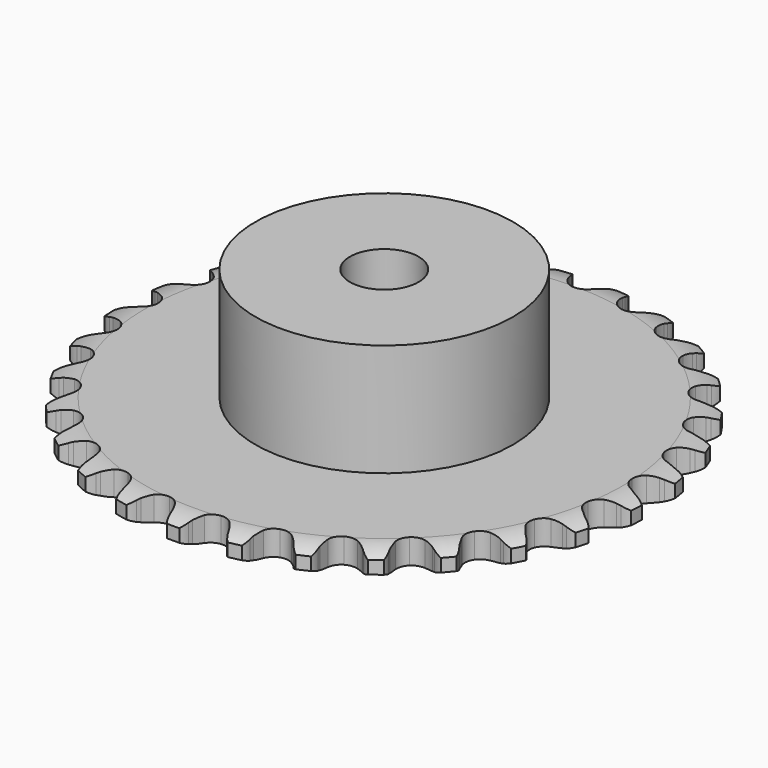
from build123d import *

# Parameters (mm, degrees)
PAD_DEPTH         = 2.9
SKETCH001_R       = 15
PAD001_DEPTH      = 16
SKETCH002_R       = 4
POCKET_DEPTH      = 0.0010001
POCKET_DEPTH_BACK = 16.001


with BuildPart() as part:
    # Sprocket → Pad (new body)
    with BuildSketch(Plane.XY):
        with BuildLine():
            ThreePointArc((-3.3987973529, 31.2514255723), (-2.6170001684, 30.6580939865), (-2.1027136668, 29.8221761659))
            Line((-2.1027136668, 29.8221761659), (-1.9418476522, 29.4031058704))
            ThreePointArc((-1.9418476522, 29.4031058704), (-1.6849074041, 28.8525283486), (-1.3535355475, 28.3432675202))
            ThreePointArc((-1.3535355475, 28.3432675202), (-0.7559938603, 27.8472092276), (0, 27.6694363925))
            ThreePointArc((0, 27.6694363925), (0.7559938603, 27.8472092276), (1.3535355475, 28.3432675202))
            ThreePointArc((1.3535355475, 28.3432675202), (1.6849074041, 28.8525283486), (1.9418476522, 29.4031058704))
            Line((1.9418476522, 29.4031058704), (2.1027136668, 29.8221761659))
            ThreePointArc((2.1027136668, 29.8221761659), (2.6170001684, 30.6580939865), (3.3987973529, 31.2514255723))
            ThreePointArc((3.3987973529, 31.2514255723), (4.0347678016, 30.5039024643), (4.3573329487, 29.5769715422))
            Line((4.3573329487, 29.5769715422), (4.4243502794, 29.1331174394))
            ThreePointArc((4.4243502794, 29.1331174394), (4.556925515, 28.5401775558), (4.7710740572, 27.9715878087))
            ThreePointArc((4.7710740572, 27.9715878087), (5.2480076824, 27.3586732838), (5.9481109217, 27.0225403458))
            ThreePointArc((5.9481109217, 27.0225403458), (6.7246459703, 27.0336406179), (7.4148553344, 27.3896475438))
            Line((7.4148553344, 27.3896475438), (8.2172469457, 28.2982377501))
            ThreePointArc((8.2172469457, 28.2982377501), (8.3359917312, 28.4887840842), (8.4644397282, 28.672928977))
            ThreePointArc((8.4644397282, 28.672928977), (9.1464001191, 29.3787471078), (10.0374680721, 29.790143646))
            ThreePointArc((10.0374680721, 29.790143646), (10.4978745134, 28.9233823656), (10.6136355183, 27.9487806016))
            Line((10.6136355183, 27.9487806016), (10.5836705092, 27.500896816))
            ThreePointArc((10.5836705092, 27.500896816), (10.5856816616, 26.8933197806), (10.6725935418, 26.2919877395))
            ThreePointArc((10.6725935418, 26.2919877395), (11.0066182185, 25.5908761842), (11.6180947875, 25.1121003459))
            ThreePointArc((11.6180947875, 25.1121003459), (12.3788611086, 24.9560090186), (13.1294647269, 25.1553180895))
            Line((13.1294647269, 25.1553180895), (14.1084169049, 25.8701754839))
            ThreePointArc((14.1084169049, 25.8701754839), (14.2653473325, 26.0307403318), (14.4303779954, 26.1829674969))
            ThreePointArc((14.4303779954, 26.1829674969), (15.2481245656, 26.7256826666), (16.20679794, 26.9359077122))
            ThreePointArc((16.20679794, 26.9359077122), (16.4701122806, 25.9904370535), (16.3736562873, 25.013735743))
            Line((16.3736562873, 25.013735743), (16.2481100688, 24.5827648226))
            ThreePointArc((16.2481100688, 24.5827648226), (16.1194630989, 23.9889602623), (16.075074414, 23.383003545))
            ThreePointArc((16.075074414, 23.383003545), (16.2505715197, 22.6264781564), (16.7448294537, 22.027446444))
            ThreePointArc((16.7448294537, 22.027446444), (17.4542544595, 21.7114621742), (18.2301549412, 21.7447539196))
            Line((18.2301549412, 21.7447539196), (19.3398929699, 22.2324525647))
            ThreePointArc((19.3398929699, 22.2324525647), (19.5276711474, 22.3555280925), (19.7215678258, 22.4687195569))
            ThreePointArc((19.7215678258, 22.4687195569), (20.6368636546, 22.8229550073), (21.6183159488, 22.8221786709))
            ThreePointArc((21.6183159488, 22.8221786709), (21.6722259027, 21.842207791), (21.3680630863, 20.9090764017))
            Line((21.3680630863, 20.9090764017), (21.1528060602, 20.5151700678))
            ThreePointArc((21.1528060602, 20.5151700678), (20.8995163572, 19.962903624), (20.7259026728, 19.3806560931))
            ThreePointArc((20.7259026728, 19.3806560931), (20.7346661579, 18.6040911576), (21.0885945051, 17.9128136281))
            ThreePointArc((21.0885945051, 17.9128136281), (21.713506271, 17.4517114892), (22.4784233717, 17.3174292239))
            Line((22.4784233717, 17.3174292239), (23.6670571345, 17.5551648732))
            ThreePointArc((23.6670571345, 17.5551648732), (23.8769027629, 17.634996206), (24.0905990636, 17.7038592625))
            ThreePointArc((24.0905990636, 17.7038592625), (25.0606459353, 17.8530513378), (26.0189855309, 17.6413099199))
            ThreePointArc((26.0189855309, 17.6413099199), (25.8609703286, 16.6726611681), (25.3633230043, 15.8267318867))
            Line((25.3633230043, 15.8267318867), (25.0684203498, 15.4883087617))
            ThreePointArc((25.0684203498, 15.4883087617), (24.7023314588, 15.0034037993), (24.4076107578, 14.4720907023))
            ThreePointArc((24.4076107578, 14.4720907023), (24.2492308515, 13.7117975332), (24.4462803158, 12.9605975556))
            ThreePointArc((24.4462803158, 12.9605975556), (24.9574586621, 12.375938171), (25.6756257083, 12.0803607847))
            Line((25.6756257083, 12.0803607847), (26.8875760114, 12.0570171833))
            ThreePointArc((26.8875760114, 12.0570171833), (27.1096769425, 12.0898714969), (27.333180664, 12.1111861855))
            ThreePointArc((27.333180664, 12.1111861855), (28.312620265, 12.0483588299), (29.2030362676, 11.635553124))
            ThreePointArc((29.2030362676, 11.635553124), (28.8404845243, 10.7235194394), (28.1726221279, 10.0043469789))
            Line((28.1726221279, 10.0043469789), (27.8118631654, 9.7372313518))
            ThreePointArc((27.8118631654, 9.7372313518), (27.350092996, 9.3423614881), (26.9480460909, 8.8868264349))
            ThreePointArc((26.9480460909, 8.8868264349), (26.6299284615, 8.1783554958), (26.660885229, 7.4023583461))
            ThreePointArc((26.660885229, 7.4023583461), (27.0344280243, 6.7214797389), (27.6722643233, 6.2784281015))
            Line((27.6722643233, 6.2784281015), (28.8508617175, 5.9950967704))
            ThreePointArc((28.8508617175, 5.9950967704), (29.0748327585, 5.9794378334), (29.2976931152, 5.9522075031))
            ThreePointArc((29.2976931152, 5.9522075031), (30.2407279383, 5.680298454), (31.0215854853, 5.085730796))
            ThreePointArc((31.0215854853, 5.085730796), (30.4714497176, 4.2729578599), (29.6646007524, 3.7141699253))
            Line((29.6646007524, 3.7141699253), (29.2548541701, 3.5308518261))
            ThreePointArc((29.2548541701, 3.5308518261), (28.7189945822, 3.244480737), (28.2284207394, 2.8860240403))
            ThreePointArc((28.2284207394, 2.8860240403), (27.7654402137, 2.2625026449), (27.6288567803, 1.4979930875))
            ThreePointArc((27.6288567803, 1.4979930875), (27.8472975787, 0.7527323846), (28.3749786139, 0.1829230982))
            Line((28.3749786139, 0.1829230982), (29.4651131951, -0.3471477045))
            ThreePointArc((29.4651131951, -0.3471477045), (29.680481709, -0.4105876974), (29.8922779984, -0.4850897868))
            ThreePointArc((29.8922779984, -0.4850897868), (30.7548127834, -0.9533663645), (31.3895998437, -1.7018946516))
            ThreePointArc((31.3895998437, -1.7018946516), (30.6776037886, -2.37740248), (29.7694956156, -2.749677586))
            Line((29.7694956156, -2.749677586), (29.3299207082, -2.8406264067))
            ThreePointArc((29.3299207082, -2.8406264067), (28.7450279006, -3.0051083274), (28.1888658077, -3.2497256307))
            ThreePointArc((28.1888658077, -3.2497256307), (27.6026708406, -3.759142315), (27.3049336959, -4.4764166631))
            ThreePointArc((27.3049336959, -4.4764166631), (27.3580584484, -5.2512118995), (27.7509104412, -5.9211351858))
            Line((27.7509104412, -5.9211351858), (28.7016087278, -6.6731599385))
            ThreePointArc((28.7016087278, -6.6731599385), (28.8983043224, -6.7814146039), (29.0891331852, -6.8997048173))
            ThreePointArc((29.0891331852, -6.8997048173), (29.8308367642, -7.5424528313), (30.2898714004, -8.4099413968))
            ThreePointArc((30.2898714004, -8.4099413968), (29.4493072022, -8.9165981222), (28.4824019502, -9.0849532294))
            Line((28.4824019502, -9.0849532294), (28.0335527518, -9.0792801058))
            ThreePointArc((28.0335527518, -9.0792801058), (27.4269756622, -9.1141818664), (26.8312308406, -9.2335217431))
            ThreePointArc((26.8312308406, -9.2335217431), (26.1492312572, -9.6050139583), (25.704262259, -10.2415141456))
            ThreePointArc((25.704262259, -10.2415141456), (25.5895869114, -11.0096153514), (25.8292405391, -11.7483277693))
            Line((25.8292405391, -11.7483277693), (26.596048936, -12.6871426304))
            ThreePointArc((26.596048936, -12.6871426304), (26.7648743437, -12.8351501005), (26.9258128346, -12.9916973191))
            ThreePointArc((26.9258128346, -12.9916973191), (27.5120039725, -13.7788625866), (27.7738222352, -14.7247486293))
            ThreePointArc((27.7738222352, -14.7247486293), (26.8439937416, -15.0388635463), (25.8635028255, -14.995426557))
            Line((25.8635028255, -14.995426557), (25.4263670259, -14.8933967582))
            ThreePointArc((25.4263670259, -14.8933967582), (24.8264685246, -14.7970863909), (24.2189973401, -14.7855686412))
            ThreePointArc((24.2189973401, -14.7855686412), (23.4730826829, -15.0017658241), (22.9016880872, -15.5277298093))
            ThreePointArc((22.9016880872, -15.5277298093), (22.6245747312, -16.2532214258), (22.6998240565, -17.0261816038))
            Line((22.6998240565, -17.0261816038), (23.2468874553, -18.1078886337))
            ThreePointArc((23.2468874553, -18.1078886337), (23.3799485878, -18.2887282436), (23.5034714017, -18.4762124935))
            ThreePointArc((23.5034714017, -18.4762124935), (23.9067404525, -19.3709880414), (23.9591000107, -20.3510429813))
            ThreePointArc((23.9591000107, -20.3510429813), (22.9834849686, -20.4579284255), (22.035255054, -20.204730405))
            Line((22.035255054, -20.204730405), (21.6302726372, -20.0111147309))
            ThreePointArc((21.6302726372, -20.0111147309), (21.0651033116, -19.7880956016), (20.4743104415, -19.6462587825))
            ThreePointArc((20.4743104415, -19.6462587825), (19.6993588509, -19.6970517932), (19.0282564339, -20.087886085))
            ThreePointArc((19.0282564339, -20.087886085), (18.6016625819, -20.7368449305), (18.5089890301, -21.5079101096))
            Line((18.5089890301, -21.5079101096), (18.8107273542, -22.68192989))
            ThreePointArc((18.8107273542, -22.68192989), (18.9018024209, -22.8871457806), (18.9821337682, -23.0968005065))
            ThreePointArc((18.9821337682, -23.0968005065), (19.1836243194, -24.0573476248), (19.0240768983, -25.0257451821))
            ThreePointArc((19.0240768983, -25.0257451821), (18.0482939827, -24.9204033089), (17.1766632465, -24.4692835152))
            Line((17.1766632465, -24.4692835152), (16.8227707403, -24.1931352195))
            ThreePointArc((16.8227707403, -24.1931352195), (16.3187572798, -23.8538354549), (15.7722675422, -23.5883116984))
            ThreePointArc((15.7722675422, -23.5883116984), (15.0045148932, -23.4713255122), (14.265084658, -23.7087551334))
            ThreePointArc((14.265084658, -23.7087551334), (13.7089573646, -24.2508366136), (13.452694248, -24.9839526431))
            Line((13.452694248, -24.9839526431), (13.4949985487, -26.1953893138))
            ThreePointArc((13.4949985487, -26.1953893138), (13.5398289806, -26.415385818), (13.5732126569, -26.6374077981))
            ThreePointArc((13.5732126569, -26.6374077981), (13.5635032341, -27.618812371), (13.1995090939, -28.5302713522))
            ThreePointArc((13.1995090939, -28.5302713522), (12.2691848295, -28.2176278306), (11.5149097561, -27.5896801239))
            Line((11.5149097561, -27.5896801239), (11.2286547807, -27.2439115941))
            ThreePointArc((11.2286547807, -27.2439115941), (10.8093642947, -26.8041964739), (10.3327309422, -26.4274013758))
            ThreePointArc((10.3327309422, -26.4274013758), (9.6080764955, -26.1481061367), (8.8348933781, -26.2210291422))
            ThreePointArc((8.8348933781, -26.2210291422), (8.1752365373, -26.6308861295), (7.7673664343, -27.2917733187))
            Line((7.7673664343, -27.2917733187), (7.5482586096, -28.4839814473))
            ThreePointArc((7.5482586096, -28.4839814473), (7.5447481856, -28.7084717732), (7.5296232074, -28.9324795064))
            ThreePointArc((7.5296232074, -28.9324795064), (7.3091678124, -29.8888521468), (6.7577469145, -30.700753743))
            ThreePointArc((6.7577469145, -30.700753743), (5.9163822298, -30.1954274365), (5.3147318835, -29.4200139538))
            Line((5.3147318835, -29.4200139538), (5.1094994034, -29.0207929419))
            ThreePointArc((5.1094994034, -29.0207929419), (4.7945374488, -28.5012230565), (4.4100473274, -28.0307751368))
            ThreePointArc((4.4100473274, -28.0307751368), (3.7623751194, -27.6022303798), (2.9915923031, -27.5072369708))
            ThreePointArc((2.9915923031, -27.5072369708), (2.2592507356, -27.7657050081), (1.7188451991, -28.3234610064))
            Line((1.7188451991, -28.3234610064), (1.2485704873, -29.4406942661))
            ThreePointArc((1.2485704873, -29.4406942661), (1.1968833508, -29.6591814955), (1.1339569452, -29.8747006291))
            ThreePointArc((1.1339569452, -29.8747006291), (0.7130638273, -30.7613224154), (0, -31.4357030103))
            ThreePointArc((0, -31.4357030103), (-0.7130638273, -30.7613224154), (-1.1339569452, -29.8747006291))
            Line((-1.1339569452, -29.8747006291), (-1.2485704873, -29.4406942661))
            ThreePointArc((-1.2485704873, -29.4406942661), (-1.4444766394, -28.8655641258), (-1.7188451991, -28.3234610064))
            ThreePointArc((-1.7188451991, -28.3234610064), (-2.2592507356, -27.7657050081), (-2.9915923031, -27.5072369708))
            ThreePointArc((-2.9915923031, -27.5072369708), (-3.7623751194, -27.6022303798), (-4.4100473274, -28.0307751368))
            Line((-4.4100473274, -28.0307751368), (-5.1094994034, -29.0207929419))
            ThreePointArc((-5.1094994034, -29.0207929419), (-5.2069464192, -29.2230608548), (-5.3147318835, -29.4200139538))
            ThreePointArc((-5.3147318835, -29.4200139538), (-5.9163822298, -30.1954274365), (-6.7577469145, -30.700753743))
            ThreePointArc((-6.7577469145, -30.700753743), (-7.3091678124, -29.8888521468), (-7.5296232074, -28.9324795064))
            Line((-7.5296232074, -28.9324795064), (-7.5482586096, -28.4839814473))
            ThreePointArc((-7.5482586096, -28.4839814473), (-7.6159486053, -27.8801834984), (-7.7673664343, -27.2917733187))
            ThreePointArc((-7.7673664343, -27.2917733187), (-8.1752365373, -26.6308861295), (-8.8348933781, -26.2210291422))
            ThreePointArc((-8.8348933781, -26.2210291422), (-9.6080764955, -26.1481061367), (-10.3327309422, -26.4274013758))
            Line((-10.3327309422, -26.4274013758), (-11.2286547807, -27.2439115941))
            ThreePointArc((-11.2286547807, -27.2439115941), (-11.3673051617, -27.4205023677), (-11.5149097561, -27.5896801239))
            ThreePointArc((-11.5149097561, -27.5896801239), (-12.2691848295, -28.2176278306), (-13.1995090939, -28.5302713522))
            ThreePointArc((-13.1995090939, -28.5302713522), (-13.5635032341, -27.618812371), (-13.5732126569, -26.6374077981))
            Line((-13.5732126569, -26.6374077981), (-13.4949985487, -26.1953893138))
            ThreePointArc((-13.4949985487, -26.1953893138), (-13.431307279, -25.5911564772), (-13.452694248, -24.9839526431))
            ThreePointArc((-13.452694248, -24.9839526431), (-13.7089573646, -24.2508366136), (-14.265084658, -23.7087551334))
            ThreePointArc((-14.265084658, -23.7087551334), (-15.0045148932, -23.4713255122), (-15.7722675422, -23.5883116984))
            Line((-15.7722675422, -23.5883116984), (-16.8227707403, -24.1931352195))
            ThreePointArc((-16.8227707403, -24.1931352195), (-16.9961413488, -24.3357916656), (-17.1766632465, -24.4692835152))
            ThreePointArc((-17.1766632465, -24.4692835152), (-18.0482939827, -24.9204033089), (-19.0240768983, -25.0257451821))
            ThreePointArc((-19.0240768983, -25.0257451821), (-19.1836243194, -24.0573476248), (-18.9821337682, -23.0968005065))
            Line((-18.9821337682, -23.0968005065), (-18.8107273542, -22.68192989))
            ThreePointArc((-18.8107273542, -22.68192989), (-18.6186329522, -22.1055154217), (-18.5089890301, -21.5079101096))
            ThreePointArc((-18.5089890301, -21.5079101096), (-18.6016625819, -20.7368449305), (-19.0282564339, -20.087886085))
            ThreePointArc((-19.0282564339, -20.087886085), (-19.6993588509, -19.6970517932), (-20.4743104415, -19.6462587825))
            Line((-20.4743104415, -19.6462587825), (-21.6302726372, -20.0111147309))
            ThreePointArc((-21.6302726372, -20.0111147309), (-21.8302568562, -20.1131663924), (-22.035255054, -20.204730405))
            ThreePointArc((-22.035255054, -20.204730405), (-22.9834849686, -20.4579284255), (-23.9591000107, -20.3510429813))
            ThreePointArc((-23.9591000107, -20.3510429813), (-23.9067404525, -19.3709880414), (-23.5034714017, -18.4762124935))
            Line((-23.5034714017, -18.4762124935), (-23.2468874553, -18.1078886337))
            ThreePointArc((-23.2468874553, -18.1078886337), (-22.9353720416, -17.5862450335), (-22.6998240565, -17.0261816038))
            ThreePointArc((-22.6998240565, -17.0261816038), (-22.6245747312, -16.2532214258), (-22.9016880872, -15.5277298093))
            ThreePointArc((-22.9016880872, -15.5277298093), (-23.4730826829, -15.0017658241), (-24.2189973401, -14.7855686412))
            Line((-24.2189973401, -14.7855686412), (-25.4263670259, -14.8933967582))
            ThreePointArc((-25.4263670259, -14.8933967582), (-25.6436138156, -14.950071813), (-25.8635028255, -14.995426557))
            ThreePointArc((-25.8635028255, -14.995426557), (-26.8439937416, -15.0388635463), (-27.7738222352, -14.7247486293))
            ThreePointArc((-27.7738222352, -14.7247486293), (-27.5120039725, -13.7788625866), (-26.9258128346, -12.9916973191))
            Line((-26.9258128346, -12.9916973191), (-26.596048936, -12.6871426304))
            ThreePointArc((-26.596048936, -12.6871426304), (-26.1796786252, -12.2446613733), (-25.8292405391, -11.7483277693))
            ThreePointArc((-25.8292405391, -11.7483277693), (-25.5895869114, -11.0096153514), (-25.704262259, -10.2415141456))
            ThreePointArc((-25.704262259, -10.2415141456), (-26.1492312572, -9.6050139583), (-26.8312308406, -9.2335217431))
            Line((-26.8312308406, -9.2335217431), (-28.0335527518, -9.0792801058))
            ThreePointArc((-28.0335527518, -9.0792801058), (-28.2579038938, -9.0879284913), (-28.4824019502, -9.0849532294))
            ThreePointArc((-28.4824019502, -9.0849532294), (-29.4493072022, -8.9165981222), (-30.2898714004, -8.4099413968))
            ThreePointArc((-30.2898714004, -8.4099413968), (-29.8308367642, -7.5424528313), (-29.0891331852, -6.8997048173))
            Line((-29.0891331852, -6.8997048173), (-28.7016087278, -6.6731599385))
            ThreePointArc((-28.7016087278, -6.6731599385), (-28.1998525329, -6.3305309562), (-27.7509104412, -5.9211351858))
            ThreePointArc((-27.7509104412, -5.9211351858), (-27.3580584484, -5.2512118995), (-27.3049336959, -4.4764166631))
            ThreePointArc((-27.3049336959, -4.4764166631), (-27.6026708406, -3.759142315), (-28.1888658077, -3.2497256307))
            Line((-28.1888658077, -3.2497256307), (-29.3299207082, -2.8406264067))
            ThreePointArc((-29.3299207082, -2.8406264067), (-29.5508857924, -2.800843734), (-29.7694956156, -2.749677586))
            ThreePointArc((-29.7694956156, -2.749677586), (-30.6776037886, -2.37740248), (-31.3895998437, -1.7018946516))
            ThreePointArc((-31.3895998437, -1.7018946516), (-30.7548127834, -0.9533663645), (-29.8922779984, -0.4850897868))
            Line((-29.8922779984, -0.4850897868), (-29.4651131951, -0.3471477045))
            ThreePointArc((-29.4651131951, -0.3471477045), (-28.9014326781, -0.1203919475), (-28.3749786139, 0.1829230982))
            ThreePointArc((-28.3749786139, 0.1829230982), (-27.8472975787, 0.7527323846), (-27.6288567803, 1.4979930875))
            ThreePointArc((-27.6288567803, 1.4979930875), (-27.7654402137, 2.2625026449), (-28.2284207394, 2.8860240403))
            Line((-28.2284207394, 2.8860240403), (-29.2548541701, 3.5308518261))
            ThreePointArc((-29.2548541701, 3.5308518261), (-29.4621011147, 3.6172053635), (-29.6646007524, 3.7141699253))
            ThreePointArc((-29.6646007524, 3.7141699253), (-30.4714497176, 4.2729578599), (-31.0215854853, 5.085730796))
            ThreePointArc((-31.0215854853, 5.085730796), (-30.2407279383, 5.680298454), (-29.2976931152, 5.9522075031))
            Line((-29.2976931152, 5.9522075031), (-28.8508617175, 5.9950967704))
            ThreePointArc((-28.8508617175, 5.9950967704), (-28.2516139528, 6.0953764548), (-27.6722643233, 6.2784281015))
            ThreePointArc((-27.6722643233, 6.2784281015), (-27.0344280243, 6.7214797389), (-26.660885229, 7.4023583461))
            ThreePointArc((-26.660885229, 7.4023583461), (-26.6299284615, 8.1783554958), (-26.9480460909, 8.8868264349))
            Line((-26.9480460909, 8.8868264349), (-27.8118631654, 9.7372313518))
            ThreePointArc((-27.8118631654, 9.7372313518), (-27.9957013337, 9.8661179584), (-28.1726221279, 10.0043469789))
            ThreePointArc((-28.1726221279, 10.0043469789), (-28.8404845243, 10.7235194394), (-29.2030362676, 11.635553124))
            ThreePointArc((-29.2030362676, 11.635553124), (-28.312620265, 12.0483588299), (-27.333180664, 12.1111861855))
            Line((-27.333180664, 12.1111861855), (-26.8875760114, 12.0570171833))
            ThreePointArc((-26.8875760114, 12.0570171833), (-26.2807811586, 12.0261318287), (-25.6756257083, 12.0803607847))
            ThreePointArc((-25.6756257083, 12.0803607847), (-24.9574586621, 12.375938171), (-24.4462803158, 12.9605975556))
            ThreePointArc((-24.4462803158, 12.9605975556), (-24.2492308515, 13.7117975332), (-24.4076107578, 14.4720907023))
            Line((-24.4076107578, 14.4720907023), (-25.0684203498, 15.4883087617))
            ThreePointArc((-25.0684203498, 15.4883087617), (-25.2202536734, 15.653701843), (-25.3633230043, 15.8267318867))
            ThreePointArc((-25.3633230043, 15.8267318867), (-25.8609703286, 16.6726611681), (-26.0189855309, 17.6413099199))
            ThreePointArc((-26.0189855309, 17.6413099199), (-25.0606459353, 17.8530513378), (-24.0905990636, 17.7038592625))
            Line((-24.0905990636, 17.7038592625), (-23.6670571345, 17.5551648732))
            ThreePointArc((-23.6670571345, 17.5551648732), (-23.0810882463, 17.3945586443), (-22.4784233717, 17.3174292239))
            ThreePointArc((-22.4784233717, 17.3174292239), (-21.713506271, 17.4517114892), (-21.0885945051, 17.9128136281))
            ThreePointArc((-21.0885945051, 17.9128136281), (-20.7346661579, 18.6040911576), (-20.7259026728, 19.3806560931))
            Line((-20.7259026728, 19.3806560931), (-21.1528060602, 20.5151700678))
            ThreePointArc((-21.1528060602, 20.5151700678), (-21.2655349815, 20.7093360272), (-21.3680630863, 20.9090764017))
            ThreePointArc((-21.3680630863, 20.9090764017), (-21.6722259027, 21.842207791), (-21.6183159488, 22.8221786709))
            ThreePointArc((-21.6183159488, 22.8221786709), (-20.6368636546, 22.8229550073), (-19.7215678258, 22.4687195569))
            Line((-19.7215678258, 22.4687195569), (-19.3398929699, 22.2324525647))
            ThreePointArc((-19.3398929699, 22.2324525647), (-18.8021493005, 21.9496352304), (-18.2301549412, 21.7447539196))
            ThreePointArc((-18.2301549412, 21.7447539196), (-17.4542544595, 21.7114621742), (-16.7448294537, 22.027446444))
            ThreePointArc((-16.7448294537, 22.027446444), (-16.2505715197, 22.6264781564), (-16.075074414, 23.383003545))
            Line((-16.075074414, 23.383003545), (-16.2481100688, 24.5827648226))
            ThreePointArc((-16.2481100688, 24.5827648226), (-16.3164635089, 24.7966246756), (-16.3736562873, 25.013735743))
            ThreePointArc((-16.3736562873, 25.013735743), (-16.4701122806, 25.9904370535), (-16.20679794, 26.9359077122))
            ThreePointArc((-16.20679794, 26.9359077122), (-15.2481245656, 26.7256826666), (-14.4303779954, 26.1829674969))
            Line((-14.4303779954, 26.1829674969), (-14.1084169049, 25.8701754839))
            ThreePointArc((-14.1084169049, 25.8701754839), (-13.6440427504, 25.4783712684), (-13.1294647269, 25.1553180895))
            ThreePointArc((-13.1294647269, 25.1553180895), (-12.3788611086, 24.9560090186), (-11.6180947875, 25.1121003459))
            ThreePointArc((-11.6180947875, 25.1121003459), (-11.0066182185, 25.5908761842), (-10.6725935418, 26.2919877395))
            Line((-10.6725935418, 26.2919877395), (-10.5836705092, 27.500896816))
            ThreePointArc((-10.5836705092, 27.500896816), (-10.604452337, 27.7244507136), (-10.6136355183, 27.9487806016))
            ThreePointArc((-10.6136355183, 27.9487806016), (-10.4978745134, 28.9233823656), (-10.0374680721, 29.790143646))
            ThreePointArc((-10.0374680721, 29.790143646), (-9.1464001191, 29.3787471078), (-8.4644397282, 28.672928977))
            Line((-8.4644397282, 28.672928977), (-8.2172469457, 28.2982377501))
            ThreePointArc((-8.2172469457, 28.2982377501), (-7.8479559256, 27.815766983), (-7.4148553344, 27.3896475438))
            ThreePointArc((-7.4148553344, 27.3896475438), (-6.7246459703, 27.0336406179), (-5.9481109217, 27.0225403458))
            ThreePointArc((-5.9481109217, 27.0225403458), (-5.2480076824, 27.3586732838), (-4.7710740572, 27.9715878087))
            Line((-4.7710740572, 27.9715878087), (-4.4243502794, 29.1331174394))
            ThreePointArc((-4.4243502794, 29.1331174394), (-4.3965887599, 29.3559122497), (-4.3573329487, 29.5769715422))
            ThreePointArc((-4.3573329487, 29.5769715422), (-4.0347678016, 30.5039024643), (-3.3987973529, 31.2514255723))
        make_face()
    extrude(amount=PAD_DEPTH)

    # Sketch → Groove (revolve, cut)
    with BuildSketch(Plane.XZ):
        with BuildLine():
            Line((27.8396735578, 0), (30.75, 0))
            Line((33.6603264422, 0), (30.75, 0))
            Line((33.6603264422, 2.9), (33.6603264422, 0))
            Line((30.75, 2.9), (33.6603264422, 2.9))
            Line((27.8396735578, 2.9), (30.75, 2.9))
            ThreePointArc((30.75, 2.2), (29.3363365125, 2.7225396744), (27.8396735578, 2.9))
            Line((30.75, 0.7), (30.75, 2.2))
            ThreePointArc((27.8396735578, 0), (29.3363365125, 0.1774603256), (30.75, 0.7))
        make_face()
    revolve(axis=Axis((0, 0, 0), (0, 0, 1)), mode=Mode.SUBTRACT)

    # Sketch001 → Pad001 (join)
    with BuildSketch(Plane.XY):
        Circle(SKETCH001_R)
    extrude(amount=PAD001_DEPTH)

    # Sketch002 → Pocket (cut, two sides)
    with BuildSketch(Plane.XY) as pocket_sk:
        Circle(SKETCH002_R)
    extrude(amount=-POCKET_DEPTH, mode=Mode.SUBTRACT)
    extrude(pocket_sk.sketch, amount=POCKET_DEPTH_BACK, mode=Mode.SUBTRACT)


solid = part.part
